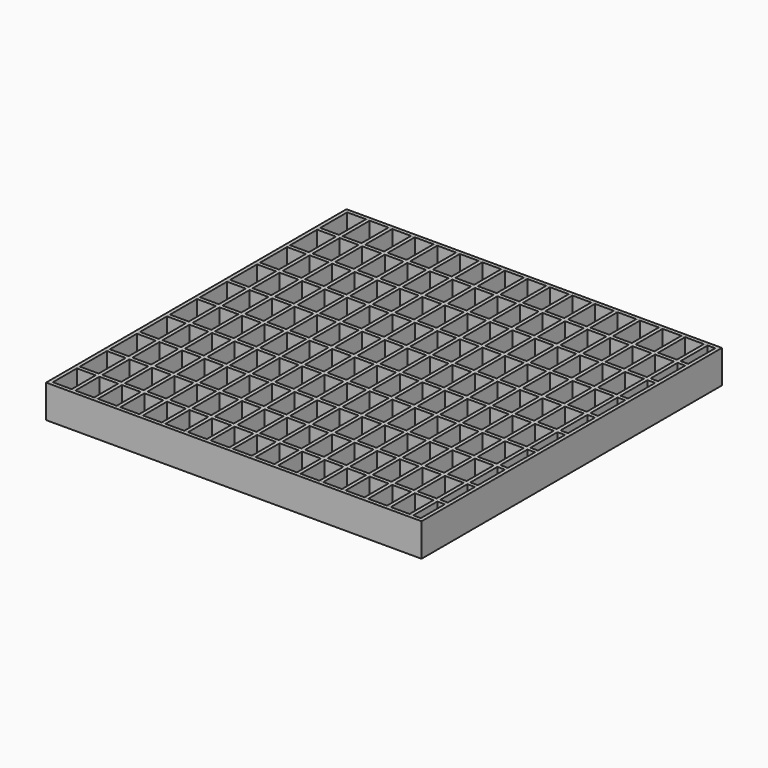
from build123d import *

# Parameters (mm, degrees)
SKETCH_W         = 500
SKETCH_H         = 500
SKETCH_W_2       = 490
SKETCH_H_2       = 490
PAD_DEPTH        = 44
SKETCH002_W      = 490
SKETCH002_H      = 5
EXTRUDE001_DEPTH = 44
ARRAY001_Y_COUNT = 9
ARRAY001_Y_PITCH = 50
SKETCH001_W      = 5
SKETCH001_H      = 490
EXTRUDE_DEPTH    = 44
ARRAY_X_COUNT    = 16
ARRAY_X_PITCH    = 30


with BuildPart() as pad:
    # Sketch → Pad (new body)
    with BuildSketch(Plane.XY):
        with Locations((250, 250)):
            Rectangle(SKETCH_W, SKETCH_H)
        with Locations((250, 250)):
            Rectangle(SKETCH_W_2, SKETCH_H_2, mode=Mode.SUBTRACT)
    extrude(amount=PAD_DEPTH)


with BuildPart() as array001:
    # Sketch002 (on Face10 of Pad) → Extrude001 (new body)
    with BuildSketch(Plane.XY.offset(44)):
        with Locations((250, 47.5)):
            Rectangle(SKETCH002_W, SKETCH002_H)
    extrude(amount=-EXTRUDE001_DEPTH)

    # Array001 Y: Array001 ×9


with BuildPart() as array001_1:
    add(array001.part)
    with Locations(*[(0, i * ARRAY001_Y_PITCH, 0) for i in range(1, ARRAY001_Y_COUNT)]):
        add(array001.part)


with BuildPart() as fusion:
    # Sketch001 (on Face10 of Pad) → Extrude (new body)
    with BuildSketch(Plane.XY.offset(44)):
        with Locations((32.5, 250)):
            Rectangle(SKETCH001_W, SKETCH001_H)
    extrude(amount=-EXTRUDE_DEPTH)

    # Array X: Fusion ×16


with BuildPart() as fusion_1:
    add(fusion.part)
    with Locations(*[(i * ARRAY_X_PITCH, 0, 0) for i in range(1, ARRAY_X_COUNT)]):
        add(fusion.part)

    # Fusion: union Array001
    add(array001_1.part)


solid = Compound([pad.part, fusion_1.part])
